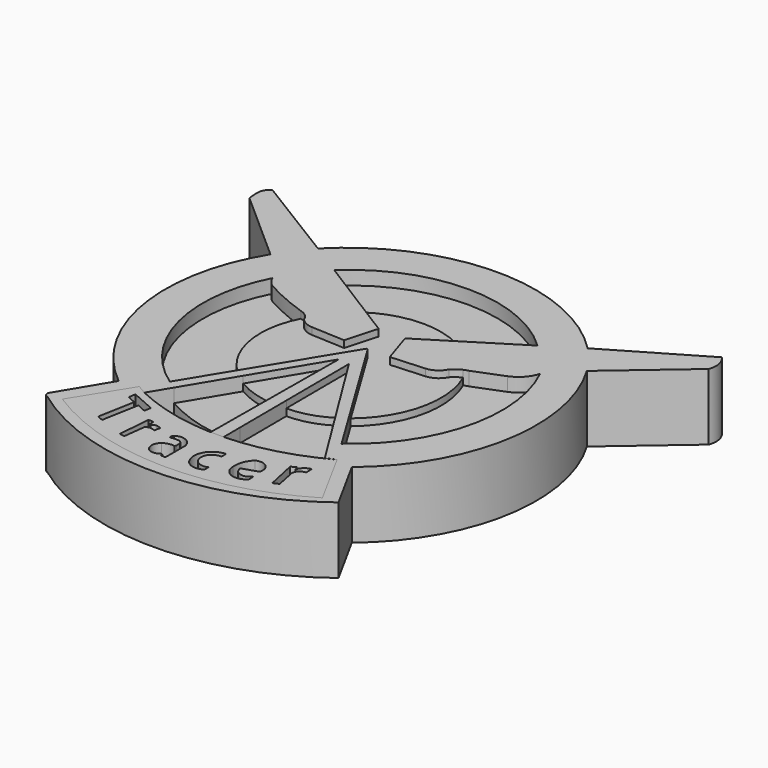
from build123d import *

# Parameters (mm, degrees)
F1_DEPTH = 7.366
F2_DEPTH = 7.366
F3_DEPTH = 6.604
F4_DEPTH = 5.842


with BuildPart() as f1:
    # F0 (on Top) → F1 (new body)
    with BuildSketch(Plane.XY):
        with BuildLine():
            Line((-5.8803851716, 5.6515596807), (-8.0876760185, 7.4898009188))
            ThreePointArc((-8.0876760185, 7.4898009188), (-10.8211948793, -6.7119396773), (-3.5290857777, -19.2014034837))
            Line((-3.5290857777, -19.2014034837), (-6.8166707642, -24.6696863323))
            ThreePointArc((-6.8166707642, -24.6696863323), (-6.8411835278, -25.0755526237), (-6.5222620033, -25.32777749))
            ThreePointArc((-6.5222620033, -25.32777749), (9.5287801483, -30.5399343128), (25.4990570247, -25.0853225589))
            Line((25.4990570247, -25.0853225589), (22.2726929933, -19.2061290145))
            ThreePointArc((22.2726929933, -19.2061290145), (29.5263042608, -6.6913447855), (26.8890950829, 7.5311665423))
            Line((26.8890950829, 7.5311665423), (24.6735122055, 5.6172669865))
            ThreePointArc((24.6735122055, 5.6172669865), (24.2614126049, 5.1644169977), (24.0714680403, 4.5823343098))
            ThreePointArc((24.0714680403, 4.5823343098), (25.2826917161, -6.838601337), (18.8484482693, -16.3520310608))
            Line((18.8484482693, -16.3520310608), (20.4079318792, -18.9109556377))
            Line((20.4079318792, -18.9109556377), (23.8832682371, -25.293244049))
            ThreePointArc((23.8832682371, -25.293244049), (9.2825091365, -29.2364639624), (-5.2051558159, -24.8961052415))
            Line((-5.2051558159, -24.8961052415), (-1.4787007822, -18.9109556377))
            Line((-1.4787007822, -18.9109556377), (0, -16.5390744805))
            ThreePointArc((0, -16.5390744805), (-6.472826199, -7.1738806078), (-5.1665838336, 4.135322112))
            ThreePointArc((-5.1665838336, 4.135322112), (-5.2390838183, 4.3510042959), (-5.2914610133, 4.5724352822))
            ThreePointArc((-5.2914610133, 4.5724352822), (-5.453609571, 5.184206607), (-5.8803851716, 5.6515596807))
        make_face()
        with BuildLine():
            Line((-16.0726923496, 14.5618319511), (-8.0876760185, 7.4898009188))
            Line((-8.0876760185, 7.4898009188), (-5.8803851716, 5.6515596807))
            ThreePointArc((-5.8803851716, 5.6515596807), (-5.453609571, 5.184206607), (-5.2914610133, 4.5724352822))
            ThreePointArc((-5.2914610133, 4.5724352822), (-5.2390838183, 4.3510042959), (-5.1665838336, 4.135322112))
            ThreePointArc((-5.1665838336, 4.135322112), (-4.796497417, 3.4905907611), (-4.2515844107, 2.9849107377))
            ThreePointArc((-4.2515844107, 2.9849107377), (-1.8902508954, 1.8162125373), (0.5690600374, 0.8709394606))
            ThreePointArc((0.5690600374, 0.8709394606), (1.3045105838, 0.4876010944), (1.7742216587, -0.1959245565))
            ThreePointArc((1.7742216587, -0.1959245565), (2.4323128099, -0.7014127982), (3.2362204511, -0.9071670938))
            Line((3.2362204511, -0.9071670938), (6.9109741598, -1.0849779937))
            Line((6.9109741598, -1.0849779937), (7.9185673967, 2.4514787365))
            Line((7.9185673967, 2.4514787365), (3.8317739483, 5.0139165503))
            Line((3.8317739483, 5.0139165503), (-1.9319355188, 8.6277882257))
            Line((-1.9319355188, 8.6277882257), (-5.571378395, 10.9097352251))
            Line((-5.571378395, 10.9097352251), (-15.1643129066, 16.8072916567))
            Line((-15.1643129066, 16.8072916567), (-15.4683357105, 16.971975565))
            ThreePointArc((-15.4683357105, 16.971975565), (-15.8980978084, 16.6162990945), (-16.1382239312, 16.1127708852))
            ThreePointArc((-16.1382239312, 16.1127708852), (-16.1632938939, 15.3348576931), (-16.0726923496, 14.5618319511))
        make_face()
        with BuildLine():
            ThreePointArc((24.2969170213, 10.8806090429), (9.3688535293, 17.1344095079), (-5.571378395, 10.9097352251))
            Line((-5.571378395, 10.9097352251), (-1.9319355188, 8.6277882257))
            ThreePointArc((-1.9319355188, 8.6277882257), (9.3423767357, 13.086932961), (20.5938685854, 8.5705162689))
            Line((20.5938685854, 8.5705162689), (24.2969170213, 10.8806090429))
        make_face()
        with BuildLine():
            Line((24.6735122055, 5.6172669865), (26.8890950829, 7.5311665423))
            Line((26.8890950829, 7.5311665423), (34.8770655692, 14.389866963))
            ThreePointArc((34.8770655692, 14.389866963), (34.9941367683, 15.6696196235), (34.3964956701, 16.8072916567))
            Line((34.3964956701, 16.8072916567), (24.2969170213, 10.8806090429))
            Line((24.2969170213, 10.8806090429), (20.5938685854, 8.5705162689))
            Line((20.5938685854, 8.5705162689), (14.9296168759, 5.0369554282))
            Line((14.9296168759, 5.0369554282), (10.819464922, 2.4728970602))
            Line((10.819464922, 2.4728970602), (11.9631513953, -1.0675401427))
            Line((11.9631513953, -1.0675401427), (15.697710216, -0.8313295548))
            ThreePointArc((15.697710216, -0.8313295548), (16.6985076992, -0.4963697804), (17.4008868635, 0.291321252))
            ThreePointArc((17.4008868635, 0.291321252), (17.8672640223, 0.7049728114), (18.4059749628, 1.0186697822))
            ThreePointArc((18.4059749628, 1.0186697822), (18.6540660404, 1.1193952769), (18.9098156989, 1.1986853788))
            Line((18.9098156989, 1.1986853788), (22.1354532987, 2.4662551004))
            ThreePointArc((22.1354532987, 2.4662551004), (23.348615494, 3.300000949), (24.0714680403, 4.5823343098))
            ThreePointArc((24.0714680403, 4.5823343098), (24.2614126049, 5.1644169977), (24.6735122055, 5.6172669865))
        make_face()
        Polygon((3.3668010414, -11.0243643495), (0, -16.5390744805), (-1.4787007822, -18.9109556377), (-0.4239495902, -19.5247139782), (0.9857653464, -17.1770028311), (4.2640588254, -11.7173982369), (8.7945377454, -4.1724289767), (8.7277491485, -13.0592193056), (8.6795533776, -19.4720761641), (8.6626736447, -21.7180680484), (10.1140075461, -21.7289755359), (10.1019511878, -19.4720761641), (10.0674279548, -13.0094726689), (10.0208483636, -4.2899698019), (14.6131124768, -11.6654788415), (17.9598712688, -17.040616054), (19.3951055408, -19.3457063287), (20.4079318792, -18.9109556377), (18.8484482693, -16.3520310608), (15.5905151773, -11.0061556659), (9.5776999369, -1.1398508213), (9.5125734806, -1.0784582701), (9.4014229253, -1.1398508213), align=None)
    extrude(amount=F1_DEPTH)

    # F0 (on Top) → F3 (join)
    with BuildSketch(Plane.XY):
        with BuildLine():
            Line((8.7945377454, -4.1724289767), (4.2640588254, -11.7173982369))
            ThreePointArc((4.2640588254, -11.7173982369), (6.4137050375, -12.6617510833), (8.7277491485, -13.0592193056))
            Line((8.7277491485, -13.0592193056), (8.7945377454, -4.1724289767))
        make_face()
        with BuildLine():
            Line((10.0208483636, -4.2899698019), (10.0674279548, -13.0094726689))
            ThreePointArc((10.0674279548, -13.0094726689), (12.4395374814, -12.6732196133), (14.6131124768, -11.6654788415))
            Line((14.6131124768, -11.6654788415), (10.0208483636, -4.2899698019))
        make_face()
        with BuildLine():
            ThreePointArc((1.7742216587, -0.1959245565), (1.3045105838, 0.4876010944), (0.5690600374, 0.8709394606))
            ThreePointArc((0.5690600374, 0.8709394606), (-0.2089715585, -5.588713513), (3.3668010414, -11.0243643495))
            Line((3.3668010414, -11.0243643495), (9.4014229253, -1.1398508213))
            Line((9.4014229253, -1.1398508213), (9.5125734806, -1.0784582701))
            Line((9.5125734806, -1.0784582701), (9.5776999369, -1.1398508213))
            Line((9.5776999369, -1.1398508213), (15.5905151773, -11.0061556659))
            ThreePointArc((15.5905151773, -11.0061556659), (19.023801866, -5.4680012774), (18.4059749628, 1.0186697822))
            ThreePointArc((18.4059749628, 1.0186697822), (17.8672640223, 0.7049728114), (17.4008868635, 0.291321252))
            ThreePointArc((17.4008868635, 0.291321252), (16.6985076992, -0.4963697804), (15.697710216, -0.8313295548))
            Line((15.697710216, -0.8313295548), (11.9631513953, -1.0675401427))
            Line((11.9631513953, -1.0675401427), (10.819464922, 2.4728970602))
            Line((10.819464922, 2.4728970602), (14.9296168759, 5.0369554282))
            ThreePointArc((14.9296168759, 5.0369554282), (9.3770994117, 6.7576317864), (3.8317739483, 5.0139165503))
            Line((3.8317739483, 5.0139165503), (7.9185673967, 2.4514787365))
            Line((7.9185673967, 2.4514787365), (6.9109741598, -1.0849779937))
            Line((6.9109741598, -1.0849779937), (3.2362204511, -0.9071670938))
            ThreePointArc((3.2362204511, -0.9071670938), (2.4323128099, -0.7014127982), (1.7742216587, -0.1959245565))
        make_face()
    extrude(amount=F3_DEPTH)

    # F0 (on Top) → F4 (join)
    with BuildSketch(Plane.XY):
        with BuildLine():
            Line((10.0674279548, -13.0094726689), (10.1019511878, -19.4720761641))
            ThreePointArc((10.1019511878, -19.4720761641), (14.1455098561, -18.6267025275), (17.9598712688, -17.040616054))
            Line((17.9598712688, -17.040616054), (14.6131124768, -11.6654788415))
            ThreePointArc((14.6131124768, -11.6654788415), (12.4395374814, -12.6732196133), (10.0674279548, -13.0094726689))
        make_face()
        with BuildLine():
            Line((4.2640588254, -11.7173982369), (0.9857653464, -17.1770028311))
            ThreePointArc((0.9857653464, -17.1770028311), (4.7008506442, -18.7664026489), (8.6795533776, -19.4720761641))
            Line((8.6795533776, -19.4720761641), (8.7277491485, -13.0592193056))
            ThreePointArc((8.7277491485, -13.0592193056), (6.4137050375, -12.6617510833), (4.2640588254, -11.7173982369))
        make_face()
        with BuildLine():
            ThreePointArc((18.8484482693, -16.3520310608), (25.2826917161, -6.838601337), (24.0714680403, 4.5823343098))
            ThreePointArc((24.0714680403, 4.5823343098), (23.348615494, 3.300000949), (22.1354532987, 2.4662551004))
            Line((22.1354532987, 2.4662551004), (18.9098156989, 1.1986853788))
            ThreePointArc((18.9098156989, 1.1986853788), (18.6540660404, 1.1193952769), (18.4059749628, 1.0186697822))
            ThreePointArc((18.4059749628, 1.0186697822), (19.023801866, -5.4680012774), (15.5905151773, -11.0061556659))
            Line((15.5905151773, -11.0061556659), (18.8484482693, -16.3520310608))
        make_face()
        with BuildLine():
            ThreePointArc((-4.2515844107, 2.9849107377), (-4.796497417, 3.4905907611), (-5.1665838336, 4.135322112))
            ThreePointArc((-5.1665838336, 4.135322112), (-6.472826199, -7.1738806078), (0, -16.5390744805))
            Line((0, -16.5390744805), (3.3668010414, -11.0243643495))
            ThreePointArc((3.3668010414, -11.0243643495), (-0.2089715585, -5.588713513), (0.5690600374, 0.8709394606))
            ThreePointArc((0.5690600374, 0.8709394606), (-1.8902508954, 1.8162125373), (-4.2515844107, 2.9849107377))
        make_face()
        with BuildLine():
            ThreePointArc((20.5938685854, 8.5705162689), (9.3423767357, 13.086932961), (-1.9319355188, 8.6277882257))
            Line((-1.9319355188, 8.6277882257), (3.8317739483, 5.0139165503))
            ThreePointArc((3.8317739483, 5.0139165503), (9.3770994117, 6.7576317864), (14.9296168759, 5.0369554282))
            Line((14.9296168759, 5.0369554282), (20.5938685854, 8.5705162689))
        make_face()
    extrude(amount=F4_DEPTH)


with BuildPart() as f2:
    # F0 (on Top) → F2 (new body)
    with BuildSketch(Plane.XY):
        with BuildLine():
            Line((-0.4239495902, -19.5247139782), (-1.4787007822, -18.9109556377))
            Line((-1.4787007822, -18.9109556377), (-5.2051558159, -24.8961052415))
            ThreePointArc((-5.2051558159, -24.8961052415), (9.2825091365, -29.2364639624), (23.8832682371, -25.293244049))
            Line((23.8832682371, -25.293244049), (20.4079318792, -18.9109556377))
            ThreePointArc((20.4079318792, -18.9109556377), (15.4277620134, -20.9292399658), (10.1140075461, -21.7289755359))
            ThreePointArc((10.1140075461, -21.7289755359), (4.7133897146, -21.2561752055), (-0.4239495902, -19.5247139782))
        make_face()
        with BuildLine():
            Line((2.7364646085, -26.8579740077), (3.0274242163, -23.2700128108))
            Line((3.0274242163, -23.2700128108), (3.6121613812, -23.3006272465))
            Line((3.6121613812, -23.3006272465), (3.6121613812, -23.9833313972))
            ThreePointArc((3.6121613812, -23.9833313972), (3.7085971562, -24.0175390035), (3.8050329313, -23.9833313972))
            ThreePointArc((3.8050329313, -23.9833313972), (3.99755773, -23.7465286338), (4.2979265563, -23.6924923956))
            ThreePointArc((4.2979265563, -23.6924923956), (4.5526805895, -23.7418186832), (4.7816359438, -23.8639339805))
            Line((4.7816359438, -23.8639339805), (4.6499934979, -24.5221462101))
            ThreePointArc((4.6499934979, -24.5221462101), (4.1280160658, -24.3566140479), (3.6060386337, -24.5221462101))
            Line((3.6060386337, -24.5221462101), (3.3044137526, -26.967195794))
            Line((3.3044137526, -26.967195794), (2.7364646085, -26.8579740077))
        make_face(mode=Mode.SUBTRACT)
        with BuildLine():
            ThreePointArc((6.6066249274, -24.2272354662), (7.809139138, -24.129147621), (8.5434773937, -25.086440146))
            Line((8.5434773937, -25.086440146), (8.5434773937, -27.6859011501))
            ThreePointArc((8.5434773937, -27.6859011501), (8.5029564282, -27.783726949), (8.4051303566, -27.8242472559))
            Line((8.4051303566, -27.8242472559), (8.0026510231, -27.8242445465))
            Line((8.0026510231, -27.8242445465), (8.0026510231, -27.5770314038))
            ThreePointArc((8.0026510231, -27.5770314038), (7.779706208, -27.5724106541), (7.5913439505, -27.691764757))
            ThreePointArc((7.5913439505, -27.691764757), (7.2466982574, -27.8000663815), (6.8877930753, -27.7588721365))
            ThreePointArc((6.8877930753, -27.7588721365), (6.5291724547, -27.5838655268), (6.3206227496, -27.243655175))
            ThreePointArc((6.3206227496, -27.243655175), (6.2409420395, -26.5393385425), (6.6366796382, -25.9512886405))
            ThreePointArc((6.6366796382, -25.9512886405), (7.2198976582, -25.6877449815), (7.8597757965, -25.7001742721))
            ThreePointArc((7.8597757965, -25.7001742721), (7.8944850455, -25.6084151782), (7.9117305577, -25.5118384957))
            Line((7.9117305577, -25.5118384957), (7.8749293461, -24.9489974231))
            ThreePointArc((7.8749293461, -24.9489974231), (7.67871678, -24.7310383739), (7.4008442461, -24.6372707188))
            ThreePointArc((7.4008442461, -24.6372707188), (6.9997876441, -24.6393553479), (6.5998784266, -24.6697422117))
            ThreePointArc((6.5998784266, -24.6697422117), (6.536946955, -24.6765510226), (6.4873103984, -24.6372707188))
            ThreePointArc((6.4873103984, -24.6372707188), (6.5099366266, -24.4214775784), (6.6066249274, -24.2272354662))
        make_face(mode=Mode.SUBTRACT)
        Polygon((-0.9586558444, -21.0178662091), (-0.8333644364, -20.2472675592), (1.8147906521, -21.416740492), (1.6800868325, -22.1698582172), (0.7432827842, -21.7412542552), (0.6514392444, -21.7137020081), (-0.0894318509, -25.7915537804), (-0.7445823285, -25.5160238594), (0, -21.4583911002), align=None, mode=Mode.SUBTRACT)
        with BuildLine():
            ThreePointArc((10.5681773275, -27.0556416363), (10.557954132, -25.0820554127), (12.2544346377, -24.0735411644))
            Line((12.2544346377, -24.0735411644), (12.2544346377, -24.7214622796))
            ThreePointArc((12.2544346377, -24.7214622796), (10.9515599821, -26.0911610812), (12.6282358542, -26.9642677158))
            Line((12.6282358542, -26.9642677158), (12.6282358542, -27.5042019784))
            ThreePointArc((12.6282358542, -27.5042019784), (11.4981833141, -27.7392887747), (10.5681773275, -27.0556416363))
        make_face(mode=Mode.SUBTRACT)
        with BuildLine():
            ThreePointArc((14.9673186243, -23.4707240015), (16.2409395471, -23.6148557792), (16.594838351, -24.8467810452))
            Line((16.594838351, -24.8467810452), (14.8904835805, -25.4195556045))
            ThreePointArc((14.8904835805, -25.4195556045), (15.648615456, -26.3122424725), (16.7345404625, -25.8735846728))
            Line((16.7345404625, -25.8735846728), (16.7869273573, -26.4987479895))
            ThreePointArc((16.7869273573, -26.4987479895), (15.182996493, -26.9445647347), (14.2094390467, -25.5941823125))
            ThreePointArc((14.2094390467, -25.5941823125), (14.3409468482, -24.4441426642), (14.9673186243, -23.4707240015))
        make_face(mode=Mode.SUBTRACT)
        with BuildLine():
            Line((18.7777765095, -25.8433483541), (18.0534962565, -22.4663801491))
            Line((18.0534962565, -22.4663801491), (18.5893978924, -22.1675597131))
            Line((18.5893978924, -22.1675597131), (18.7425129116, -22.6145554334))
            ThreePointArc((18.7425129116, -22.6145554334), (18.7422873755, -22.6092514435), (18.744982779, -22.6046778262))
            ThreePointArc((18.744982779, -22.6046778262), (19.126780541, -21.9711444606), (19.7989866138, -21.6624811292))
            Line((19.7989866138, -21.6624811292), (19.8155995458, -22.453693673))
            ThreePointArc((19.8155995458, -22.453693673), (19.2106856972, -22.7074481095), (18.9143251628, -23.2926681638))
            Line((18.9143251628, -23.2926681638), (19.3796213716, -25.5500338972))
            Line((19.3796213716, -25.5500338972), (18.7777765095, -25.8433483541))
        make_face(mode=Mode.SUBTRACT)
    extrude(amount=F2_DEPTH)


solid = Compound([f1.part, f2.part])
